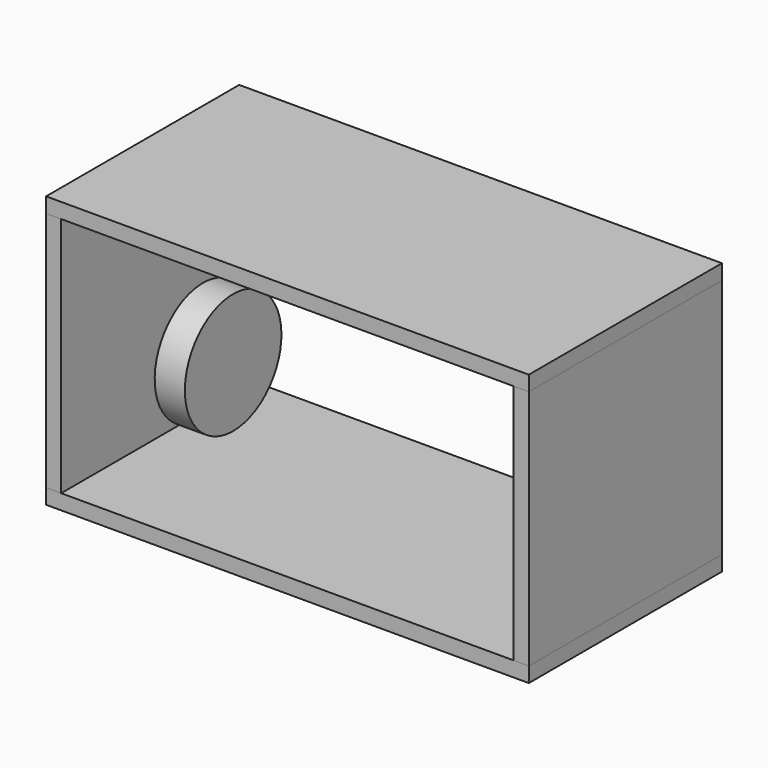
from build123d import *

# Parameters (mm, degrees)
F2_DEPTH      = 50.8
F3_DEPTH      = 50.8
F3_DEPTH_BACK = 50.8
F1_W          = 12.7
F1_H          = 25.4


with BuildPart() as f2:
    # F1 (on Front) → F2 (new body, symmetric)
    with BuildSketch(Plane.XZ):
        Polygon((-101.6, 114.3), (-101.6, 107.95), (-95.25, 107.95), (95.25, 107.95), (101.6, 107.95), (101.6, 114.3), align=None)
    extrude(amount=F2_DEPTH, both=True)


with BuildPart() as f2b:
    # F1 (on Front) → F2, piece 2 (new body, symmetric)
    with BuildSketch(Plane.XZ):
        Polygon((-101.6, 6.35), (-101.6, 0), (101.6, 0), (101.6, 6.35), (95.25, 6.35), (-95.25, 6.35), align=None)
    extrude(amount=F2_DEPTH, both=True)


with BuildPart() as f3:
    # F1 (on Front) → F3 (new body, two sides)
    with BuildSketch(Plane.XZ) as f3_sk:
        Polygon((-101.6, 107.95), (-101.6, 6.35), (-95.25, 6.35), (-95.25, 57.15), (-95.25, 107.95), align=None)
    extrude(amount=F3_DEPTH)
    extrude(f3_sk.sketch, amount=-F3_DEPTH_BACK)


with BuildPart() as f3b:
    # F1 (on Front) → F3, piece 2 (new body, two sides)
    with BuildSketch(Plane.XZ) as f3_2_sk:
        Polygon((95.25, 6.35), (101.6, 6.35), (101.6, 107.95), (95.25, 107.95), (95.25, 57.15), align=None)
    extrude(amount=F3_DEPTH)
    extrude(f3_2_sk.sketch, amount=-F3_DEPTH_BACK)


with BuildPart() as f4:
    # F1 (on Front) → F4 (revolve)
    with BuildSketch(Plane.XZ):
        with Locations((-69.85, 31.75)):
            Rectangle(F1_W, F1_H)
    revolve(axis=Axis((-69.85, 0, 44.45), (1, 0, 0)))


solid = Compound([f2.part, f2b.part, f3.part, f3b.part, f4.part])
